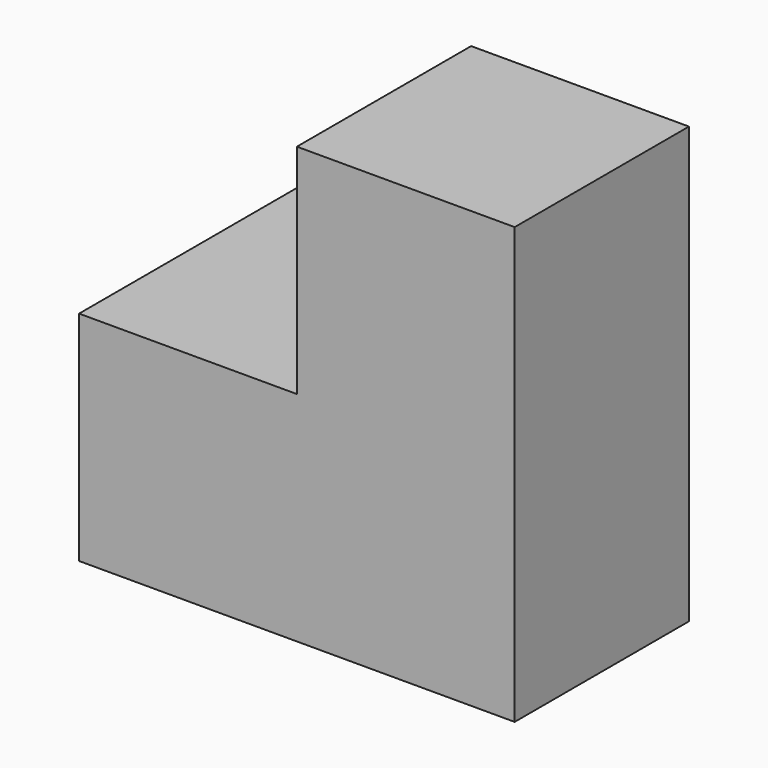
from build123d import *

# Parameters (mm, degrees)
F0_W     = 10
F0_H     = 10
F1_DEPTH = 20
F2_W     = 10
F2_H     = 10
F3_DEPTH = 10
F4_W     = 10
F4_H     = 10
F5_DEPTH = 10


with BuildPart() as f1:
    # F0 (on Top) → F1 (new body)
    with BuildSketch(Plane.XY):
        with Locations((5, 5)):
            Rectangle(F0_W, F0_H)
    extrude(amount=F1_DEPTH)

    # F2 (on face) → F3 (join)
    with BuildSketch(Plane(origin=(0, 0, 0), x_dir=(0, -1, 0), z_dir=(-1, 0, 0))):
        with Locations((-5, 5)):
            Rectangle(F2_W, F2_H)
    extrude(amount=F3_DEPTH)

    # F4 (on face) → F5 (join)
    with BuildSketch(Plane(origin=(0, 10, 0), x_dir=(-1, 0, 0), z_dir=(0, 1, 0))):
        with Locations((5, 5)):
            Rectangle(F4_W, F4_H)
    extrude(amount=F5_DEPTH)


solid = f1.part
